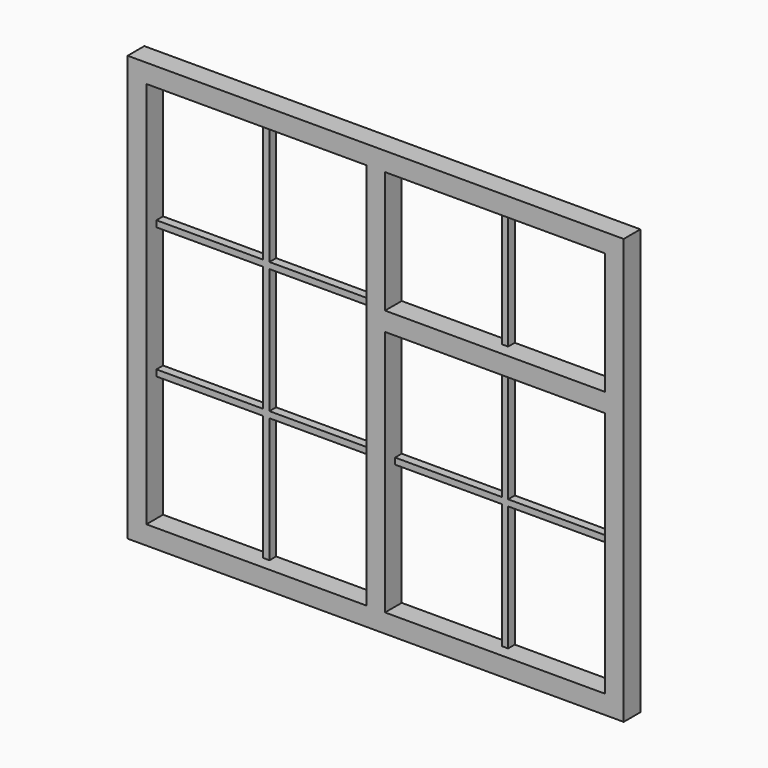
from build123d import *

# Parameters (mm, degrees)
F0_W     = 1190
F0_H     = 1020
F0_W_2   = 527.5
F0_H_2   = 592.5
F0_H_3   = 930
F0_H_4   = 292.5
F1_DEPTH = 50
F2_W     = 15
F2_H     = 292.5
F3_DEPTH = 20


with BuildPart() as f1:
    # F0 (on Front) → F1 (new body)
    with BuildSketch(Plane.XZ):
        with Locations((595, 510)):
            Rectangle(F0_W, F0_H)
        with Locations((881.25, 341.25)):
            Rectangle(F0_W_2, F0_H_2, mode=Mode.SUBTRACT)
        with Locations((308.75, 510)):
            Rectangle(F0_W_2, F0_H_3, mode=Mode.SUBTRACT)
        with Locations((881.25, 828.75)):
            Rectangle(F0_W_2, F0_H_4, mode=Mode.SUBTRACT)
    extrude(amount=F1_DEPTH)

    # F2 (on Front) → F3 (join)
    with BuildSketch(Plane.XZ):
        Polygon((316.25, 975), (301.25, 975), (301.25, 675), (45, 675), (45, 660), (301.25, 660), (301.25, 360), (45, 360), (45, 345), (301.25, 345), (301.25, 45), (316.25, 45), (316.25, 345), (572.5, 345), (572.5, 360), (316.25, 360), (316.25, 660), (572.5, 660), (572.5, 675), (316.25, 675), align=None)
        Polygon((873.75, 360), (617.5, 360), (617.5, 345), (873.75, 345), (873.75, 45), (888.75, 45), (888.75, 345), (1145, 345), (1145, 360), (888.75, 360), (888.75, 637.5), (873.75, 637.5), align=None)
        with Locations((881.25, 828.75)):
            Rectangle(F2_W, F2_H)
    extrude(amount=F3_DEPTH)


solid = f1.part
